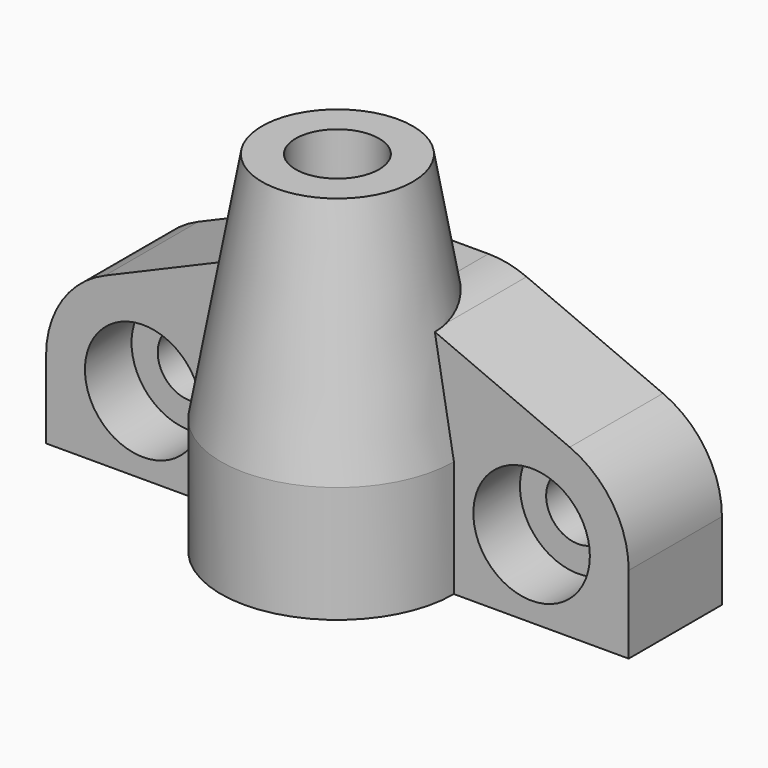
from build123d import *

# Parameters (mm, degrees)
F1_R      = 1.65
F2_DEPTH  = 6
F3_R      = 3.75
F4_DEPTH  = 12.001
F5_R      = 6
F5_R_2    = 1.25
F6_DEPTH  = 6
F7_SIZE2  = 4
F7_SIZE   = 2
F8_R      = 6
F9_DEPTH  = 12
F9_TAPER  = 10
F10_R     = 2.15
F11_DEPTH = 12
F12_R     = 3
F13_DEPTH = 3
F14_R     = 3
F15_DEPTH = 3


with BuildPart() as f2:
    # F1 (on Front) → F2 (new body)
    with BuildSketch(Plane.XZ):
        with BuildLine():
            Line((15, 0), (15, 4))
            ThreePointArc((15, 4), (14.1725596506, 6.7549493575), (11.9641016151, 8.5980762114))
            Line((11.9641016151, 8.5980762114), (4.9409269852, 11.5980762114))
            ThreePointArc((4.9409269852, 11.5980762114), (3.9792272214, 11.8984885963), (2.9768253701, 12))
            Line((2.9768253701, 12), (0, 12))
            Line((0, 12), (-2.9768253701, 12))
            ThreePointArc((-2.9768253701, 12), (-3.9792272214, 11.8984885963), (-4.9409269852, 11.5980762114))
            Line((-4.9409269852, 11.5980762114), (-11.9641016151, 8.5980762114))
            ThreePointArc((-11.9641016151, 8.5980762114), (-14.1725596506, 6.7549493575), (-15, 4))
            Line((-15, 4), (-15, 0))
            Line((-15, 0), (0, 0))
            Line((0, 0), (15, 0))
        make_face()
        with Locations((-10, 4)):
            Circle(F1_R, mode=Mode.SUBTRACT)
        with Locations((10, 4)):
            Circle(F1_R, mode=Mode.SUBTRACT)
    extrude(amount=-F2_DEPTH)

    # F3 (on face) → F4 (cut, through all)
    with BuildSketch(Plane.XY.offset(12)):
        Circle(F3_R)
    extrude(amount=-F4_DEPTH, mode=Mode.SUBTRACT)



with BuildPart() as f6:
    # F5 (on Top) → F6 (new body)
    with BuildSketch(Plane.XY):
        Circle(F5_R)
        Circle(F5_R_2, mode=Mode.SUBTRACT)
    extrude(amount=F6_DEPTH)

    # F7
    f7_edges = [f6.edges().sort_by_distance(p)[0] for p in [
        (-1.25, 0, 0),
    ]]
    f7_side = f6.faces().sort_by_distance((-5.830294, 0, 0))[0]
    chamfer(f7_edges, length=F7_SIZE, length2=F7_SIZE2, reference=f7_side)


with BuildPart() as f2_1:
    add(f2.part)

    add(f6.part)  # F9 merges F6
    # F8 (on face) → F9 (join)
    with BuildSketch(Plane.XY.offset(6)):
        Circle(F8_R)
    extrude(amount=F9_DEPTH, taper=F9_TAPER)

    # F10 (on face) → F11 (cut)
    with BuildSketch(Plane.XY.offset(18)):
        Circle(F10_R)
    extrude(amount=-F11_DEPTH, mode=Mode.SUBTRACT)

    # F12 (on face) → F13 (cut)
    with BuildSketch(Plane.XZ):
        with Locations((-10, 4)):
            Circle(F12_R)
    extrude(amount=-F13_DEPTH, mode=Mode.SUBTRACT)

    # F14 (on face) → F15 (cut)
    with BuildSketch(Plane.XZ):
        with Locations((10, 4)):
            Circle(F14_R)
    extrude(amount=-F15_DEPTH, mode=Mode.SUBTRACT)


solid = f2_1.part
